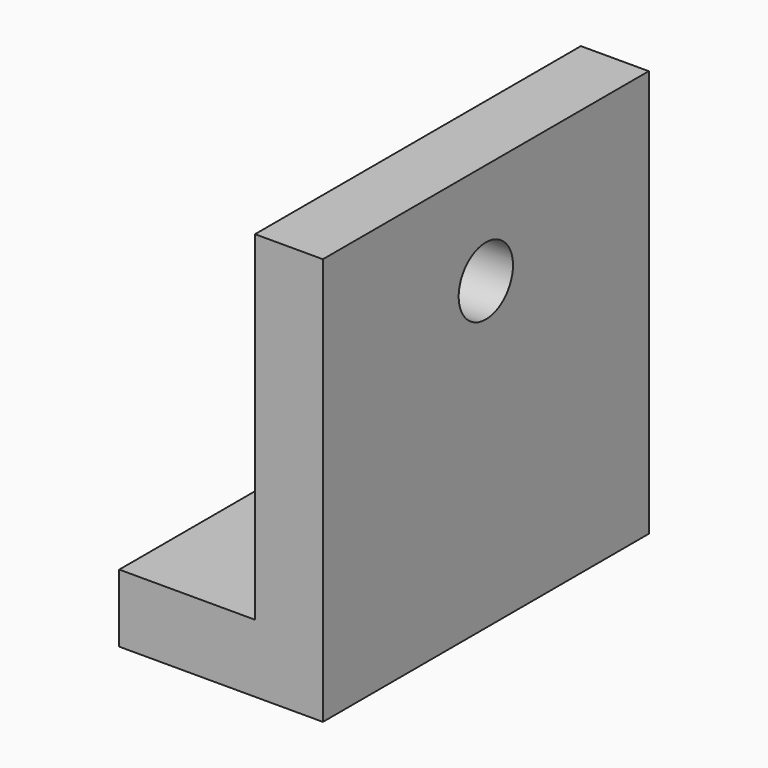
from build123d import *

# Parameters (mm, degrees)
F1_DEPTH = 76.2
F2_R     = 12.7
F3_DEPTH = 76.201


with BuildPart() as f1:
    # F0 (on Front) → F1 (new body, symmetric)
    with BuildSketch(Plane.XZ):
        Polygon((-76.2, 0), (0, 0), (0, 152.4), (-25.4, 152.4), (-25.4, 25.4), (-76.2, 25.4), align=None)
    extrude(amount=F1_DEPTH, both=True)

    # F2 (on face) → F3 (cut, through all)
    with BuildSketch(Plane.YZ):
        with Locations((0, 114.3)):
            Circle(F2_R)
    extrude(amount=-F3_DEPTH, mode=Mode.SUBTRACT)


solid = f1.part
